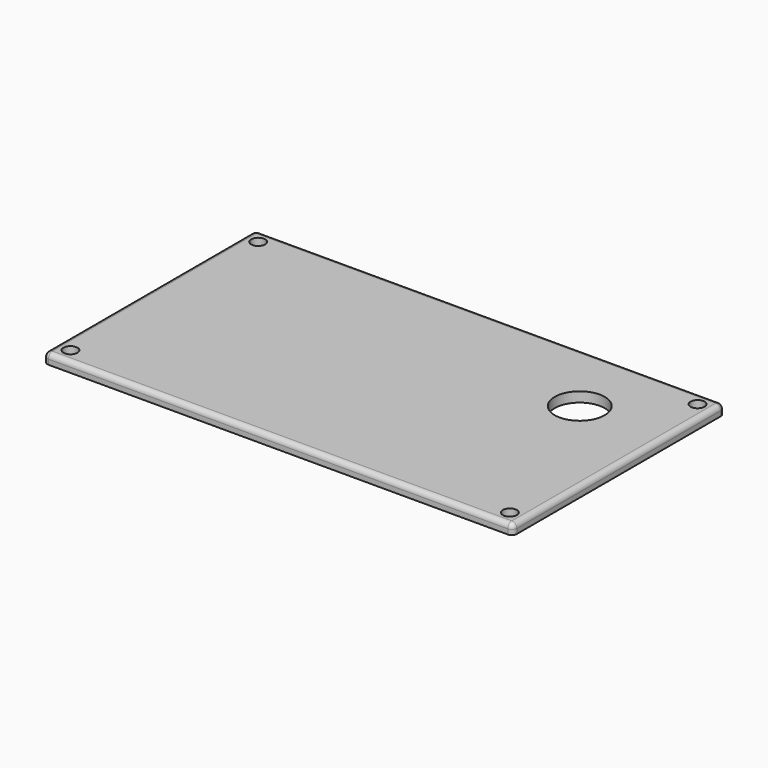
from build123d import *

# Parameters (mm, degrees)
SKETCH_W     = 94
SKETCH_H     = 53
SKETCH_R     = 1.4
PAD_DEPTH    = 2
FILLET_R     = 1
SKETCH001_R  = 5
POCKET_DEPTH = 5


with BuildPart() as part:
    # Sketch → Pad (new body)
    with BuildSketch(Plane.XY):
        Rectangle(SKETCH_W, SKETCH_H)
        with Locations((-44, 23.5)):
            Circle(SKETCH_R, mode=Mode.SUBTRACT)
        with Locations((44, 23.5)):
            Circle(SKETCH_R, mode=Mode.SUBTRACT)
        with Locations((44, -23.5)):
            Circle(SKETCH_R, mode=Mode.SUBTRACT)
        with Locations((-44, -23.5)):
            Circle(SKETCH_R, mode=Mode.SUBTRACT)
    extrude(amount=PAD_DEPTH)

    # Fillet
    fillet_edges = [part.edges().sort_by_distance(p)[0] for p in [
        (47, 0, 2),
        (47, 26.5, 1),
        (47, -26.5, 1),
        (0, -26.5, 2),
        (0, 26.5, 2),
        (-47, 0, 2),
        (-47, 26.5, 1),
        (-47, -26.5, 1),
    ]]
    fillet(fillet_edges, radius=FILLET_R)

    # Sketch001 (on Face17 of Fillet) → Pocket (cut)
    with BuildSketch(Plane.XY.offset(2)):
        with Locations((30, 11.5)):
            Circle(SKETCH001_R)
    extrude(amount=-POCKET_DEPTH, mode=Mode.SUBTRACT)


solid = part.part
